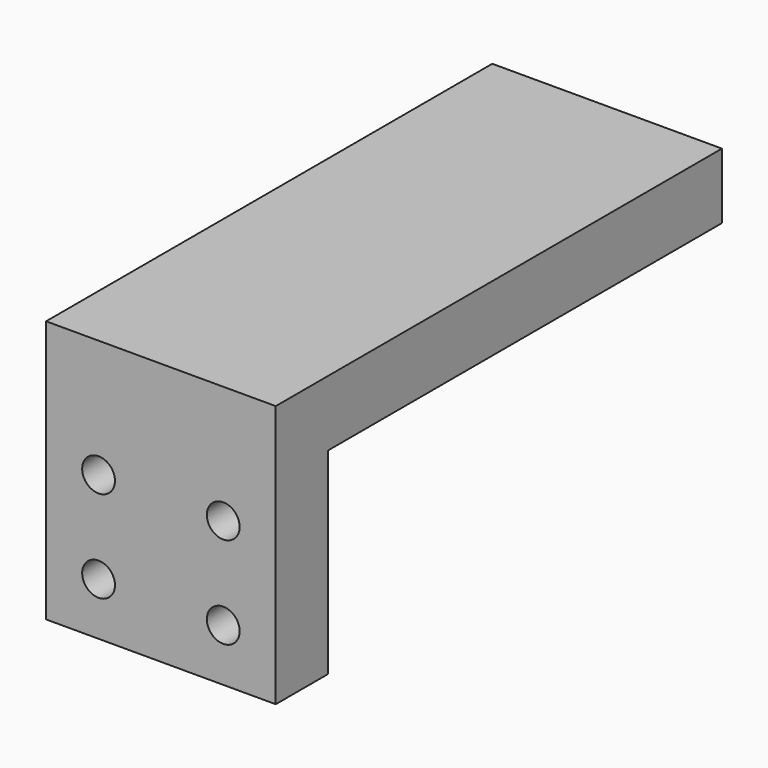
from build123d import *

# Parameters (mm, degrees)
F0_W     = 44.45
F0_H     = 107.95
F1_DEPTH = 12.7
F2_W     = 44.45
F2_H     = 12.7
F3_DEPTH = 38.1
F4_R     = 3.175
F5_DEPTH = 12.701


with BuildPart() as f1:
    # F0 (on Top) → F1 (new body)
    with BuildSketch(Plane.XY):
        with Locations((22.225, 53.975)):
            Rectangle(F0_W, F0_H)
    extrude(amount=F1_DEPTH)

    # F2 (on face) → F3 (join)
    with BuildSketch(Plane(origin=(0, 0, 0), x_dir=(1, 0, 0), z_dir=(0, 0, -1))):
        with Locations((22.225, -6.35)):
            Rectangle(F2_W, F2_H)
    extrude(amount=F3_DEPTH)

    # F4 (on face) → F5 (cut, through all)
    with BuildSketch(Plane(origin=(0, 12.7, 0), x_dir=(-1, 0, 0), z_dir=(0, 1, 0))):
        with Locations((-34.29, -10.16)):
            Circle(F4_R)
        with Locations((-34.29, -27.94)):
            Circle(F4_R)
        with Locations((-10.16, -10.16)):
            Circle(F4_R)
        with Locations((-10.16, -27.94)):
            Circle(F4_R)
    extrude(amount=-F5_DEPTH, mode=Mode.SUBTRACT)


solid = f1.part
